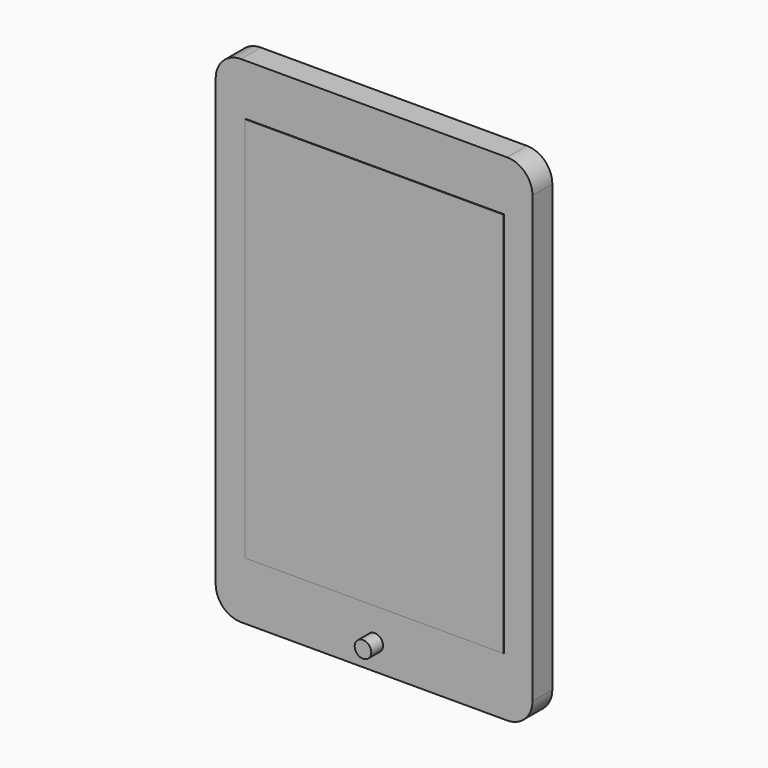
from build123d import *

# Parameters (mm, degrees)
F0_W      = 63.608665
F0_H      = 99.548988
F2_DEPTH  = 7.95075
F3_R      = 5.08
F4_R      = 5.08
F5_R      = 5.08
F6_R      = 5.08
F8_W      = 63.608665
F8_H      = 99.548988
F8_R      = 1.663226
F8_W_2    = 51.913798
F8_H_2    = 77.585458
F9_DEPTH  = 2.95953
F1_W      = 51.913798
F1_H      = 77.585458
F10_DEPTH = 2.82358


with BuildPart() as f2:
    # F0 (on Front) → F2 (new body)
    with BuildSketch(Plane.XZ):
        with Locations((-0.14262, -7.416256)):
            Rectangle(F0_W, F0_H)
    extrude(amount=-F2_DEPTH)

    # F3
    f3_edges = [f2.edges().sort_by_distance(p)[0] for p in [
        (-31.946953, 3.975375, 42.358238),
    ]]
    fillet(f3_edges, radius=F3_R)

    # F4
    f4_edges = [f2.edges().sort_by_distance(p)[0] for p in [
        (31.661712, 3.975375, 42.358238),
    ]]
    fillet(f4_edges, radius=F4_R)

    # F5
    f5_edges = [f2.edges().sort_by_distance(p)[0] for p in [
        (31.661712, 3.975375, -57.19075),
    ]]
    fillet(f5_edges, radius=F5_R)

    # F6
    f6_edges = [f2.edges().sort_by_distance(p)[0] for p in [
        (-31.946953, 3.975375, -57.19075),
    ]]
    fillet(f6_edges, radius=F6_R)

    # F8 (on face) → F9 (cut)
    with BuildSketch(Plane.XZ):
        with Locations((-0.14262, -7.416256)):
            Rectangle(F8_W, F8_H)
        with Locations((0, -52.056417)):
            Circle(F8_R, mode=Mode.SUBTRACT)
        with Locations((0, -6.703157)):
            Rectangle(F8_W_2, F8_H_2, mode=Mode.SUBTRACT)
    extrude(amount=-F9_DEPTH, mode=Mode.SUBTRACT)

    # F1 (on face) → F10 (cut)
    with BuildSketch(Plane.XZ):
        with Locations((0, -6.703157)):
            Rectangle(F1_W, F1_H)
    extrude(amount=-F10_DEPTH, mode=Mode.SUBTRACT)


solid = f2.part
